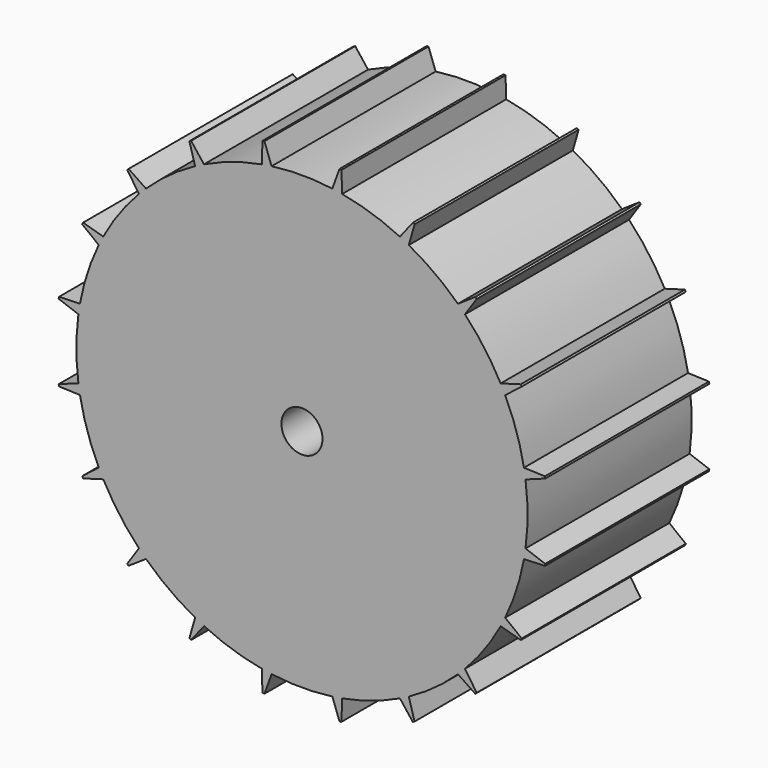
from build123d import *

# Parameters (mm, degrees)
F0_R     = 152.4
F0_R_2   = 76.2
F0_R_3   = 12.7
F1_DEPTH = 63.5
F3_DEPTH = 63.5


with BuildPart() as f1:
    # F0 (on Front) → F1 (new body, symmetric)
    with BuildSketch(Plane.XZ):
        Circle(F0_R)
        Circle(F0_R_2, mode=Mode.SUBTRACT)
        Circle(F0_R_2)
        Circle(F0_R_3, mode=Mode.SUBTRACT)
    extrude(amount=F1_DEPTH, both=True)

    # F2 (on Front) → F3 (cut, symmetric)
    with BuildSketch(Plane.XZ):
        with BuildLine():
            ThreePointArc((-18.8071139829, 138.4282574608), (0, 139.7), (18.8071139829, 138.4282574608))
            Line((18.8071139829, 138.4282574608), (23.2434776929, 150.6170665786))
            ThreePointArc((23.2434776929, 150.6170665786), (0, 152.4), (-23.2434776929, 150.6170665786))
            Line((-23.2434776929, 150.6170665786), (-18.8071139829, 138.4282574608))
        make_face()
        with BuildLine():
            ThreePointArc((-60.6633123632, 125.8413784616), (-43.1696741142, 132.8625953264), (-24.890055751, 137.4648141333))
            Line((-24.890055751, 137.4648141333), (-24.4373722945, 150.4279722503))
            ThreePointArc((-24.4373722945, 150.4279722503), (-47.0941899427, 144.9410130834), (-68.6490941369, 136.0627130194))
            Line((-68.6490941369, 136.0627130194), (-60.6633123632, 125.8413784616))
        make_face()
        with BuildLine():
            ThreePointArc((-96.5813630633, 100.9362685502), (-82.1135997453, 113.0196741142), (-66.1508134087, 123.0453570248))
            Line((-66.1508134087, 123.0453570248), (-69.7261220165, 135.5139399049))
            ThreePointArc((-69.7261220165, 135.5139399049), (-89.5784724494, 123.2941899427), (-107.3348589404, 108.1895931051))
            Line((-107.3348589404, 108.1895931051), (-96.5813630633, 100.9362685502))
        make_face()
        with BuildLine():
            ThreePointArc((-123.0453570248, 66.1508134087), (-113.0196741142, 82.1135997453), (-100.9362685502, 96.5813630633))
            Line((-100.9362685502, 96.5813630633), (-108.1895931051, 107.3348589404))
            ThreePointArc((-108.1895931051, 107.3348589404), (-123.2941899427, 89.5784724494), (-135.5139399049, 69.7261220165))
            Line((-135.5139399049, 69.7261220165), (-123.0453570248, 66.1508134087))
        make_face()
        with BuildLine():
            ThreePointArc((-137.4648141333, 24.890055751), (-132.8625953264, 43.1696741142), (-125.8413784616, 60.6633123632))
            Line((-125.8413784616, 60.6633123632), (-136.0627130194, 68.6490941369))
            ThreePointArc((-136.0627130194, 68.6490941369), (-144.9410130834, 47.0941899427), (-150.4279722503, 24.4373722945))
            Line((-150.4279722503, 24.4373722945), (-137.4648141333, 24.890055751))
        make_face()
        with BuildLine():
            ThreePointArc((-138.4282574608, -18.8071139829), (-139.7, 0), (-138.4282574608, 18.8071139829))
            Line((-138.4282574608, 18.8071139829), (-150.6170665786, 23.2434776929))
            ThreePointArc((-150.6170665786, 23.2434776929), (-152.4, 0), (-150.6170665786, -23.2434776929))
            Line((-150.6170665786, -23.2434776929), (-138.4282574608, -18.8071139829))
        make_face()
        with BuildLine():
            ThreePointArc((-125.8413784616, -60.6633123632), (-132.8625953264, -43.1696741142), (-137.4648141333, -24.890055751))
            Line((-137.4648141333, -24.890055751), (-150.4279722503, -24.4373722945))
            ThreePointArc((-150.4279722503, -24.4373722945), (-144.9410130834, -47.0941899427), (-136.0627130194, -68.6490941369))
            Line((-136.0627130194, -68.6490941369), (-125.8413784616, -60.6633123632))
        make_face()
        with BuildLine():
            ThreePointArc((-100.9362685502, -96.5813630633), (-113.0196741142, -82.1135997453), (-123.0453570248, -66.1508134087))
            Line((-123.0453570248, -66.1508134087), (-135.5139399049, -69.7261220165))
            ThreePointArc((-135.5139399049, -69.7261220165), (-123.2941899427, -89.5784724494), (-108.1895931051, -107.3348589404))
            Line((-108.1895931051, -107.3348589404), (-100.9362685502, -96.5813630633))
        make_face()
        with BuildLine():
            ThreePointArc((-66.1508134087, -123.0453570248), (-82.1135997453, -113.0196741142), (-96.5813630633, -100.9362685502))
            Line((-96.5813630633, -100.9362685502), (-107.3348589404, -108.1895931051))
            ThreePointArc((-107.3348589404, -108.1895931051), (-89.5784724494, -123.2941899427), (-69.7261220165, -135.5139399049))
            Line((-69.7261220165, -135.5139399049), (-66.1508134087, -123.0453570248))
        make_face()
        with BuildLine():
            ThreePointArc((-24.890055751, -137.4648141333), (-43.1696741142, -132.8625953264), (-60.6633123632, -125.8413784616))
            Line((-60.6633123632, -125.8413784616), (-68.6490941369, -136.0627130194))
            ThreePointArc((-68.6490941369, -136.0627130194), (-47.0941899427, -144.9410130834), (-24.4373722945, -150.4279722503))
            Line((-24.4373722945, -150.4279722503), (-24.890055751, -137.4648141333))
        make_face()
        with BuildLine():
            ThreePointArc((18.8071139829, -138.4282574608), (0, -139.7), (-18.8071139829, -138.4282574608))
            Line((-18.8071139829, -138.4282574608), (-23.2434776929, -150.6170665786))
            ThreePointArc((-23.2434776929, -150.6170665786), (0, -152.4), (23.2434776929, -150.6170665786))
            Line((23.2434776929, -150.6170665786), (18.8071139829, -138.4282574608))
        make_face()
        with BuildLine():
            ThreePointArc((60.6633123632, -125.8413784616), (43.1696741142, -132.8625953264), (24.890055751, -137.4648141333))
            Line((24.890055751, -137.4648141333), (24.4373722945, -150.4279722503))
            ThreePointArc((24.4373722945, -150.4279722503), (47.0941899427, -144.9410130834), (68.6490941369, -136.0627130194))
            Line((68.6490941369, -136.0627130194), (60.6633123632, -125.8413784616))
        make_face()
        with BuildLine():
            ThreePointArc((96.5813630633, -100.9362685502), (82.1135997453, -113.0196741142), (66.1508134087, -123.0453570248))
            Line((66.1508134087, -123.0453570248), (69.7261220165, -135.5139399049))
            ThreePointArc((69.7261220165, -135.5139399049), (89.5784724494, -123.2941899427), (107.3348589404, -108.1895931051))
            Line((107.3348589404, -108.1895931051), (96.5813630633, -100.9362685502))
        make_face()
        with BuildLine():
            ThreePointArc((123.0453570248, -66.1508134087), (113.0196741142, -82.1135997453), (100.9362685502, -96.5813630633))
            Line((100.9362685502, -96.5813630633), (108.1895931051, -107.3348589404))
            ThreePointArc((108.1895931051, -107.3348589404), (123.2941899427, -89.5784724494), (135.5139399049, -69.7261220165))
            Line((135.5139399049, -69.7261220165), (123.0453570248, -66.1508134087))
        make_face()
        with BuildLine():
            ThreePointArc((137.4648141333, -24.890055751), (132.8625953264, -43.1696741142), (125.8413784616, -60.6633123632))
            Line((125.8413784616, -60.6633123632), (136.0627130194, -68.6490941369))
            ThreePointArc((136.0627130194, -68.6490941369), (144.9410130834, -47.0941899427), (150.4279722503, -24.4373722945))
            Line((150.4279722503, -24.4373722945), (137.4648141333, -24.890055751))
        make_face()
        with BuildLine():
            ThreePointArc((138.4282574608, 18.8071139829), (139.7, 0), (138.4282574608, -18.8071139829))
            Line((138.4282574608, -18.8071139829), (150.6170665786, -23.2434776929))
            ThreePointArc((150.6170665786, -23.2434776929), (152.4, 0), (150.6170665786, 23.2434776929))
            Line((150.6170665786, 23.2434776929), (138.4282574608, 18.8071139829))
        make_face()
        with BuildLine():
            ThreePointArc((125.8413784616, 60.6633123632), (132.8625953264, 43.1696741142), (137.4648141333, 24.890055751))
            Line((137.4648141333, 24.890055751), (150.4279722503, 24.4373722945))
            ThreePointArc((150.4279722503, 24.4373722945), (144.9410130834, 47.0941899427), (136.0627130194, 68.6490941369))
            Line((136.0627130194, 68.6490941369), (125.8413784616, 60.6633123632))
        make_face()
        with BuildLine():
            ThreePointArc((100.9362685502, 96.5813630633), (113.0196741142, 82.1135997453), (123.0453570248, 66.1508134087))
            Line((123.0453570248, 66.1508134087), (135.5139399049, 69.7261220165))
            ThreePointArc((135.5139399049, 69.7261220165), (123.2941899427, 89.5784724494), (108.1895931051, 107.3348589404))
            Line((108.1895931051, 107.3348589404), (100.9362685502, 96.5813630633))
        make_face()
        with BuildLine():
            ThreePointArc((66.1508134087, 123.0453570248), (82.1135997453, 113.0196741142), (96.5813630633, 100.9362685502))
            Line((96.5813630633, 100.9362685502), (107.3348589404, 108.1895931051))
            ThreePointArc((107.3348589404, 108.1895931051), (89.5784724494, 123.2941899427), (69.7261220165, 135.5139399049))
            Line((69.7261220165, 135.5139399049), (66.1508134087, 123.0453570248))
        make_face()
        with BuildLine():
            ThreePointArc((24.890055751, 137.4648141333), (43.1696741142, 132.8625953264), (60.6633123632, 125.8413784616))
            Line((60.6633123632, 125.8413784616), (68.6490941369, 136.0627130194))
            ThreePointArc((68.6490941369, 136.0627130194), (47.0941899427, 144.9410130834), (24.4373722945, 150.4279722503))
            Line((24.4373722945, 150.4279722503), (24.890055751, 137.4648141333))
        make_face()
    extrude(amount=F3_DEPTH, both=True, mode=Mode.SUBTRACT)


solid = f1.part
